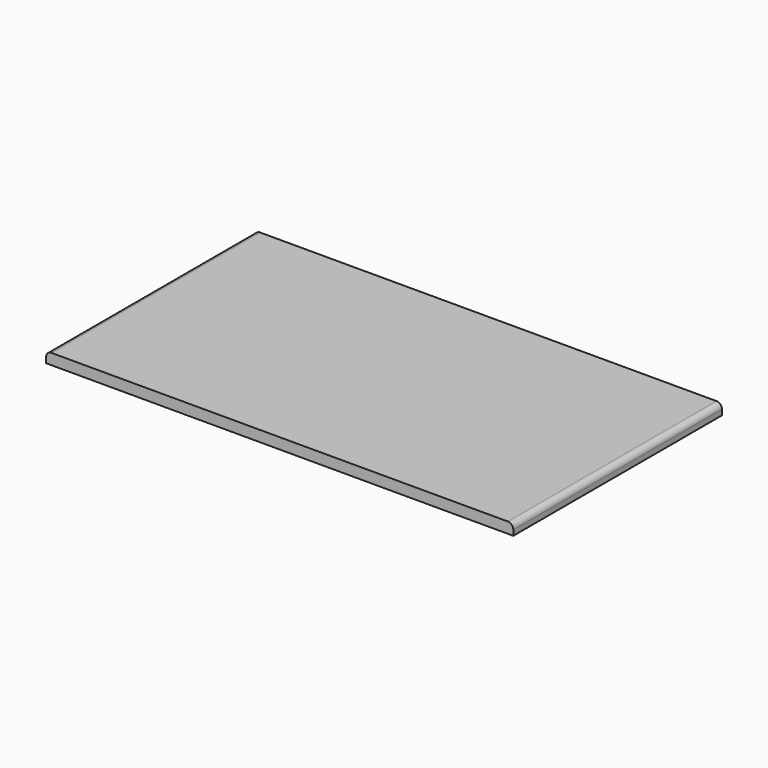
from build123d import *

# Parameters (mm, degrees)
F0_W     = 860
F0_H     = 20
F1_DEPTH = 480
F2_R     = 10


with BuildPart() as f1:
    # F0 (on Front) → F1 (new body)
    with BuildSketch(Plane.XZ):
        with Locations((191.379804, 63.851355)):
            Rectangle(F0_W, F0_H)
    extrude(amount=-F1_DEPTH)

    # F2
    f2_edges = [f1.edges().sort_by_distance(p)[0] for p in [
        (621.379804, 240, 73.851355),
        (-238.620196, 240, 73.851355),
    ]]
    fillet(f2_edges, radius=F2_R)


solid = f1.part
